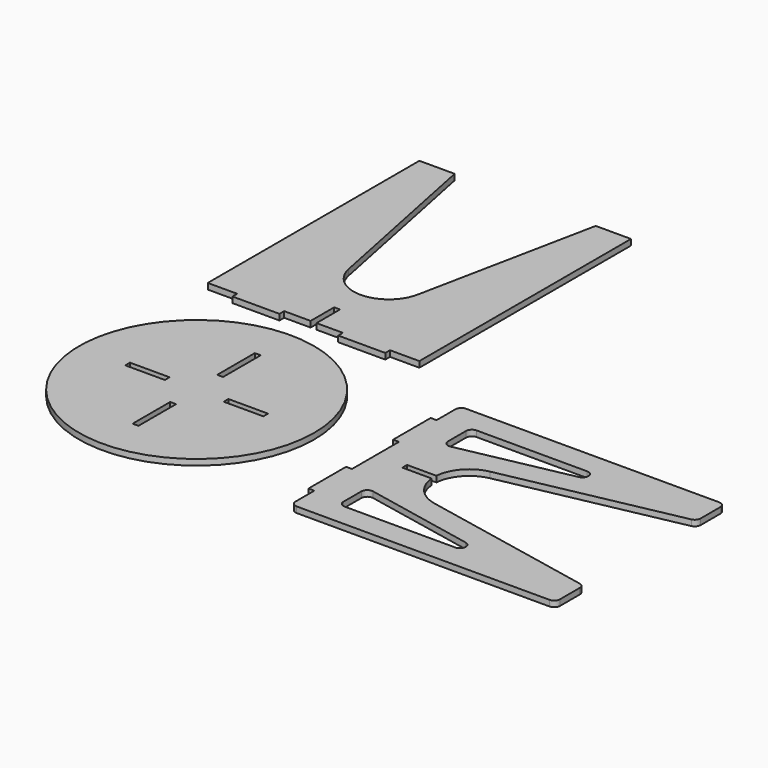
from build123d import *

# Parameters (mm, degrees)
F0_R     = 200
F0_W     = 10
F0_H     = 80
F0_W_2   = 67.437902
F0_H_2   = 10
F1_DEPTH = 10


with BuildPart() as f1:
    # F0 (on Top) → F1 (new body)
    with BuildSketch(Plane.XY):
        Circle(F0_R)
        with Locations((0, -90)):
            Rectangle(F0_W, F0_H, mode=Mode.SUBTRACT)
        with Locations((-83.718951, 0)):
            Rectangle(F0_W_2, F0_H_2, mode=Mode.SUBTRACT)
        with Locations((83.718951, 0)):
            Rectangle(F0_W_2, F0_H_2, mode=Mode.SUBTRACT)
        with Locations((0, 90)):
            Rectangle(F0_W, F0_H, mode=Mode.SUBTRACT)
        with BuildLine():
            Line((-180, 698.651519), (-180, 248.651519))
            Line((-180, 248.651519), (-130, 248.651519))
            Line((-130, 248.651519), (-130, 238.651519))
            Line((-130, 238.651519), (-50, 238.651519))
            Line((-50, 238.651519), (-50, 248.651519))
            Line((-50, 248.651519), (-5, 248.651519))
            Line((-5, 248.651519), (-5, 298.651519))
            Line((-5, 298.651519), (5, 298.651519))
            Line((5, 298.651519), (5, 248.651519))
            Line((5, 248.651519), (50, 248.651519))
            Line((50, 248.651519), (50, 238.651519))
            Line((50, 238.651519), (130, 238.651519))
            Line((130, 238.651519), (130, 248.651519))
            Line((130, 248.651519), (180, 248.651519))
            Line((180, 248.651519), (180, 698.651519))
            Line((180, 698.651519), (120, 698.651519))
            Line((120, 698.651519), (58.804231, 396.732527))
            ThreePointArc((58.804231, 396.732527), (0, 348.651519), (-58.804231, 396.732527))
            Line((-58.804231, 396.732527), (-120, 698.651519))
            Line((-120, 698.651519), (-180, 698.651519))
        make_face()
        with BuildLine():
            ThreePointArc((313.999049, 180.300119), (306.927981, 177.371187), (303.999049, 170.300119))
            Line((303.999049, 170.300119), (303.999049, 130.300842))
            Line((303.999049, 130.300842), (293.999049, 130.300842))
            Line((293.999049, 130.300842), (293.999049, 50.300842))
            Line((293.999049, 50.300842), (303.999049, 50.300842))
            Line((303.999049, 50.300842), (303.999049, -49.699881))
            Line((303.999049, -49.699881), (293.999049, -49.699881))
            Line((293.999049, -49.699881), (293.999049, -129.699881))
            Line((293.999049, -129.699881), (303.999049, -129.699881))
            Line((303.999049, -129.699881), (303.999049, -169.699881))
            ThreePointArc((303.999049, -169.699881), (306.927981, -176.770949), (313.999049, -179.699881))
            Line((313.999049, -179.699881), (743.999049, -179.699881))
            ThreePointArc((743.999049, -179.699881), (751.070116, -176.770949), (753.999049, -169.699881))
            Line((753.999049, -169.699881), (753.999049, -127.882796))
            ThreePointArc((753.999049, -127.882796), (751.738205, -121.54991), (745.977958, -118.080556))
            Line((745.977958, -118.080556), (451.702737, -58.671267))
            ThreePointArc((451.702737, -58.671267), (418.767156, -39.759579), (403.785119, -4.860538))
            Line((403.785119, -4.860538), (353.790898, -4.877805))
            Line((353.790898, -4.877805), (353.784669, 5.122193))
            Line((353.784669, 5.122193), (403.784666, 5.139462))
            ThreePointArc((403.784666, 5.139462), (418.75339, 40.028464), (451.667488, 58.94849))
            Line((451.667488, 58.94849), (746.612349, 118.67698))
            ThreePointArc((746.612349, 118.67698), (752.368618, 122.147465), (754.627564, 128.478032))
            Line((754.627564, 128.478032), (754.627564, 170.300119))
            ThreePointArc((754.627564, 170.300119), (751.698632, 177.371187), (744.627564, 180.300119))
            Line((744.627564, 180.300119), (313.999049, 180.300119))
        make_face()
        with BuildLine():
            Line((353.999049, -130.300119), (353.999049, -92.20992))
            ThreePointArc((353.999049, -92.20992), (357.668482, -84.468865), (365.983833, -82.408867))
            Line((365.983833, -82.408867), (554.076796, -120.499067))
            ThreePointArc((554.076796, -120.499067), (562.04215, -131.297485), (552.092012, -140.300119))
            Line((552.092012, -140.300119), (363.999049, -140.300119))
            ThreePointArc((363.999049, -140.300119), (356.927981, -137.371187), (353.999049, -130.300119))
        make_face(mode=Mode.SUBTRACT)
        with BuildLine():
            ThreePointArc((353.999049, 130.300119), (356.927981, 137.371187), (363.999049, 140.300119))
            Line((363.999049, 140.300119), (552.092012, 140.300119))
            ThreePointArc((552.092012, 140.300119), (562.04215, 131.297485), (554.076796, 120.499067))
            Line((554.076796, 120.499067), (365.983833, 82.408867))
            ThreePointArc((365.983833, 82.408867), (357.668482, 84.468865), (353.999049, 92.20992))
            Line((353.999049, 92.20992), (353.999049, 130.300119))
        make_face(mode=Mode.SUBTRACT)
    extrude(amount=F1_DEPTH)


solid = f1.part
